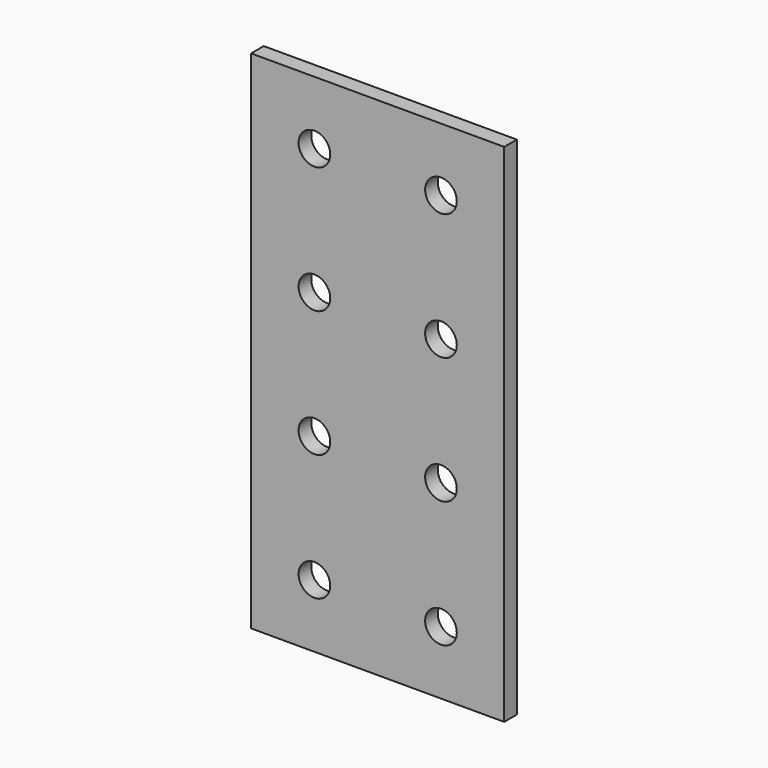
from build123d import *

# Parameters (mm, degrees)
SKETCH_W  = 203.2
SKETCH_H  = 406.4
SKETCH_R  = 12.704623
PAD_DEPTH = 12.7


with BuildPart() as part:
    # Sketch → Pad (new body)
    with BuildSketch(Plane.XZ):
        Rectangle(SKETCH_W, SKETCH_H)
        with Locations((-50.8, -152.4)):
            Circle(SKETCH_R, mode=Mode.SUBTRACT)
        with Locations((-50.8, -50.8)):
            Circle(SKETCH_R, mode=Mode.SUBTRACT)
        with Locations((50.8, -50.8)):
            Circle(SKETCH_R, mode=Mode.SUBTRACT)
        with Locations((-50.8, 50.8)):
            Circle(SKETCH_R, mode=Mode.SUBTRACT)
        with Locations((50.8, 50.8)):
            Circle(SKETCH_R, mode=Mode.SUBTRACT)
        with Locations((-50.8, 152.4)):
            Circle(SKETCH_R, mode=Mode.SUBTRACT)
        with Locations((50.8, 152.4)):
            Circle(SKETCH_R, mode=Mode.SUBTRACT)
        with Locations((50.8, -152.4)):
            Circle(SKETCH_R, mode=Mode.SUBTRACT)
    extrude(amount=PAD_DEPTH)


solid = part.part
